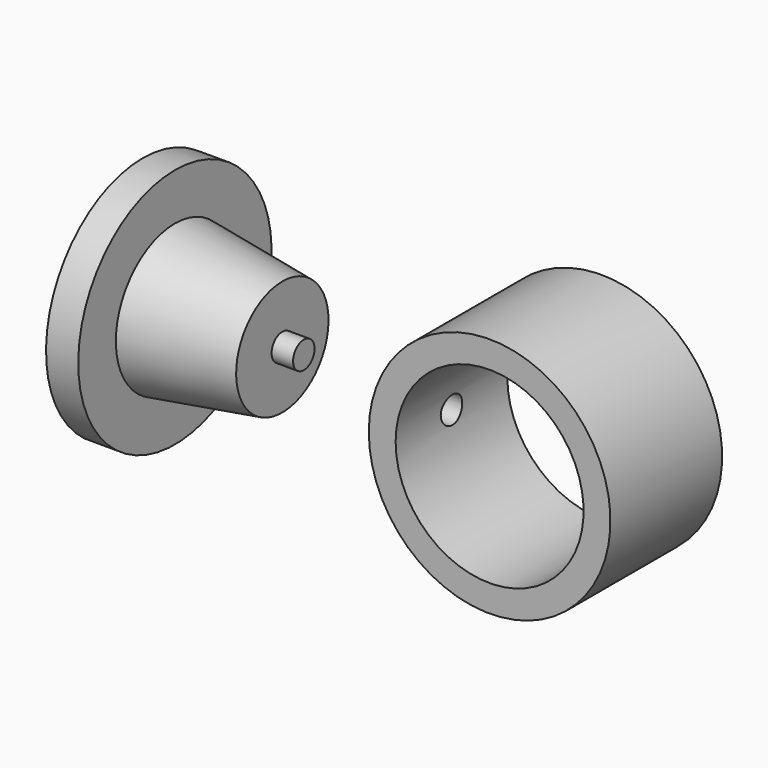
from build123d import *

# Parameters (mm, degrees)
F0_W     = 4
F0_H     = 2.5
F3_DEPTH = 13
F5_R     = 2.5
F6_DEPTH = 5


with BuildPart() as f1:
    # F0 (on Front) → F1 (revolve)
    with BuildSketch(Plane.XZ):
        Polygon((0, 22.5), (0, 11.15), (3, 11.15), (3, 6), (6, 6), (6, 13.75), (6, 22.5), align=None)
        Polygon((6, 13.75), (6, 6), (19, 6), (19, 0), (26, 0), (26, 2.5), (26, 10.75), align=None)
        with Locations((28, 1.25)):
            Rectangle(F0_W, F0_H)
    revolve(axis=Axis((16, 0, 0), (1, 0, 0)))


with BuildPart() as f3:
    # F2 (on Front) → F3 (new body, symmetric)
    with BuildSketch(Plane.XZ):
        with BuildLine():
            ThreePointArc((97.5, 0), (75, 22.5), (52.5, 0))
            ThreePointArc((52.5, 0), (75, -22.5), (97.5, 0))
        make_face()
        with BuildLine():
            ThreePointArc((92.5, 0), (75, -17.5), (57.5, 0))
            ThreePointArc((57.5, 0), (75, 17.5), (92.5, 0))
        make_face(mode=Mode.SUBTRACT)
    extrude(amount=F3_DEPTH, both=True)

    # F5 (on offset) → F6 (cut, symmetric)
    with BuildSketch(Plane.YZ.offset(56)):
        Circle(F5_R)
    extrude(amount=F6_DEPTH, both=True, mode=Mode.SUBTRACT)


solid = Compound([f1.part, f3.part])
